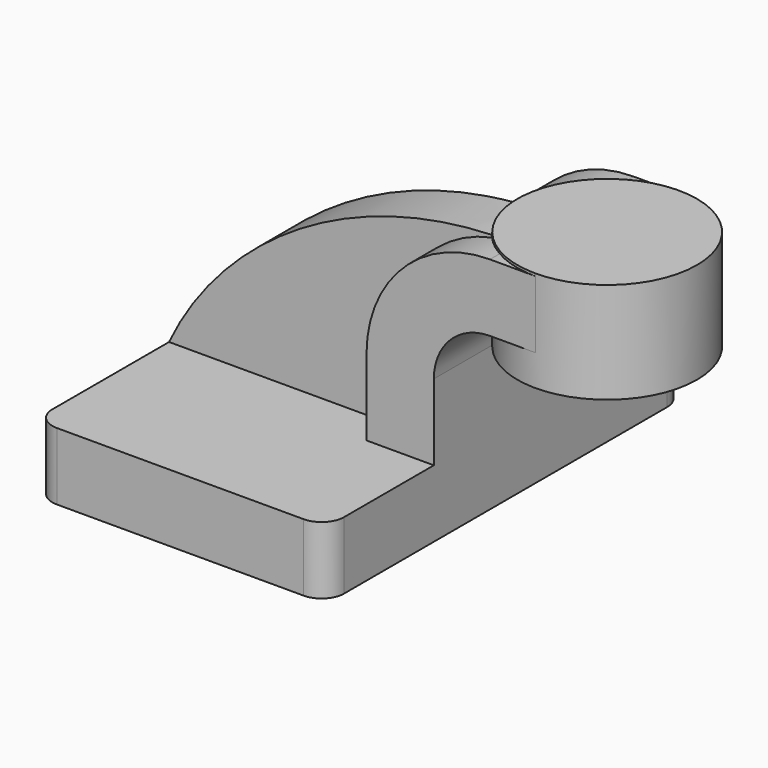
from build123d import *

# Parameters (mm, degrees)
F1_DEPTH = 63.5
F2_DEPTH = 25.4
F3_DEPTH = 15.875
F5_R     = 6.35


with BuildPart() as f1:
    # F0 (on Front) → F1 (new body, symmetric)
    with BuildSketch(Plane.XZ):
        Polygon((-41.275, -9.525), (41.275, -9.525), (41.275, 9.525), (22.225, 9.525), (-41.275, 9.525), align=None)
    extrude(amount=F1_DEPTH, both=True)

    # F0 (on Front) → F2 (join, symmetric)
    with BuildSketch(Plane.XZ):
        with BuildLine():
            Line((22.225, 9.525), (41.275, 9.525))
            Line((41.275, 9.525), (41.275, 31.055324))
            ThreePointArc((41.275, 31.055324), (45.92468, 42.280644), (57.15, 46.930324))
            Line((57.15, 46.930324), (70.002963, 46.930324))
            Line((70.002963, 46.930324), (70.002963, 65.980324))
            Line((70.002963, 65.980324), (57.15, 65.980324))
            ThreePointArc((57.15, 65.980324), (32.454296, 55.751029), (22.225, 31.055324))
            Line((22.225, 31.055324), (22.225, 9.525))
        make_face()
    extrude(amount=F2_DEPTH, both=True)

    # F0 (on Front) → F3 (join)
    with BuildSketch(Plane.XZ):
        with BuildLine():
            add(Edge.make_bspline(
                [(-41.275, 9.525), (-26.659947, 40.76108), (10.355518, 66.98136), (57.15, 65.980324)],
                knots=[0, 0, 0, 0, 113.466666, 113.466666, 113.466666, 113.466666], degree=3))
            Line((-41.275, 9.525), (22.225, 9.525))
            Line((22.225, 9.525), (22.225, 31.055324))
            ThreePointArc((22.225, 31.055324), (32.454296, 55.751029), (57.15, 65.980324))
        make_face()
    extrude(amount=F3_DEPTH)

    # F0 (on Front) → F4 (revolve)
    with BuildSketch(Plane.XZ):
        Polygon((70.002963, 66.675), (70.002963, 65.980324), (70.002963, 46.930324), (70.002963, 38.1), (95.402963, 38.1), (95.402963, 66.675), align=None)
    revolve(axis=Axis((70.002963, 0, 52.3875), (0, 0, 1)))

    # F5
    f5_edges = [f1.edges().sort_by_distance(p)[0] for p in [
        (-41.275, -63.5, 0),
        (41.275, -63.5, 0),
        (-41.275, 63.5, 0),
        (41.275, 63.5, 0),
    ]]
    fillet(f5_edges, radius=F5_R)


solid = f1.part
